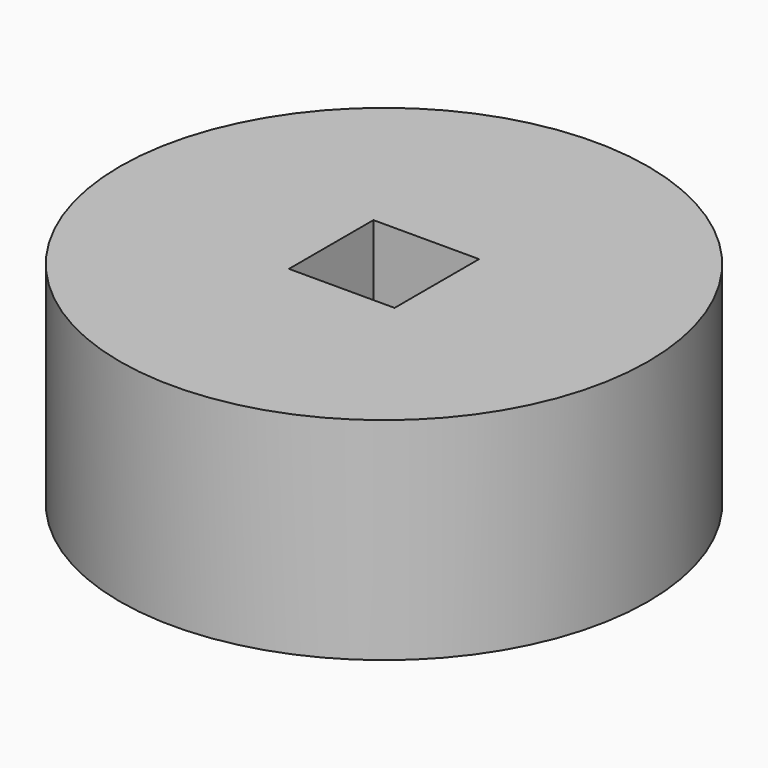
from build123d import *

# Parameters (mm, degrees)
F0_R     = 63.5
F1_DEPTH = 50.8
F2_W     = 25.4
F2_H     = 25.4
F3_DEPTH = 50.801


with BuildPart() as f1:
    # F0 (on Top) → F1 (new body)
    with BuildSketch(Plane.XY):
        Circle(F0_R)
    extrude(amount=F1_DEPTH)

    # F2 (on face) → F3 (cut, through all)
    with BuildSketch(Plane.XY.offset(50.8)):
        Rectangle(F2_W, F2_H)
    extrude(amount=-F3_DEPTH, mode=Mode.SUBTRACT)


solid = f1.part
